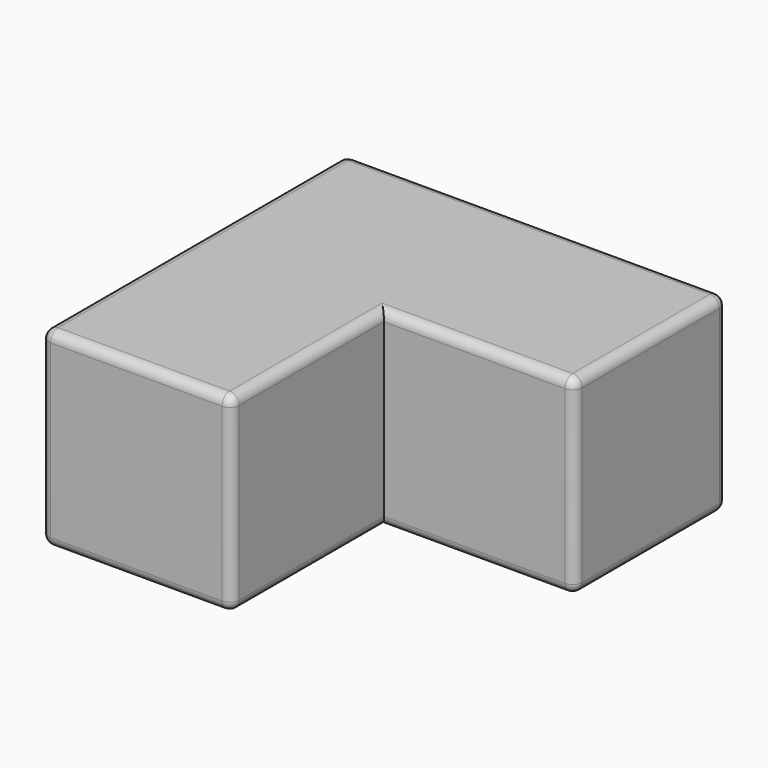
from build123d import *

# Parameters (mm, degrees)
F0_W     = 10
F0_H     = 10
F1_DEPTH = 20
F2_DEPTH = 10
F3_R     = 0.5


with BuildPart() as f1:
    # F0 (on Front) → F1 (new body)
    with BuildSketch(Plane.XZ):
        with Locations((-5, 0)):
            Rectangle(F0_W, F0_H)
    extrude(amount=F1_DEPTH)

    # F0 (on Front) → F2 (join)
    with BuildSketch(Plane.XZ):
        with Locations((5, 0)):
            Rectangle(F0_W, F0_H)
        with Locations((-5, 0)):
            Rectangle(F0_W, F0_H)
    extrude(amount=F2_DEPTH)

    # F3
    f3_edges = [f1.edges().sort_by_distance(p)[0] for p in [
        (0, 0, 5),
        (10, -5, 5),
        (5, -10, 5),
        (0, -15, 5),
        (-5, -20, 5),
        (-10, -10, 5),
        (0, 0, -5),
        (-10, -10, -5),
        (-5, -20, -5),
        (0, -15, -5),
        (5, -10, -5),
        (10, -5, -5),
        (10, 0, 0),
        (-10, 0, 0),
        (0, -20, 0),
        (-10, -20, 0),
        (10, -10, 0),
    ]]
    fillet(f3_edges, radius=F3_R)


solid = f1.part
